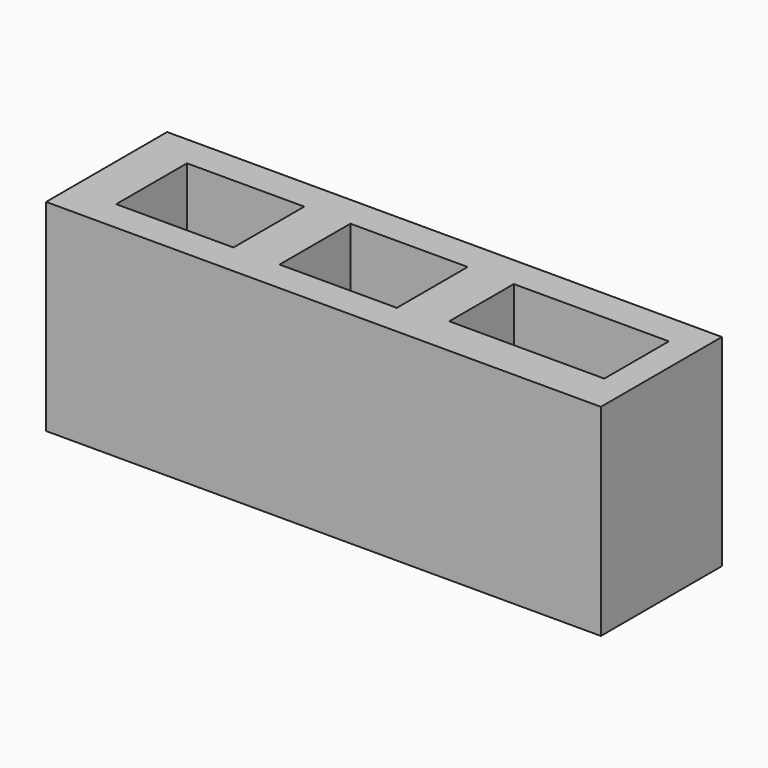
from build123d import *

# Parameters (mm, degrees)
F0_W     = 55.88
F0_H     = 15.24
F0_W_2   = 11.811
F0_H_2   = 8.9154
F0_W_3   = 15.621
F0_H_3   = 8.128
F1_DEPTH = 20.32


with BuildPart() as f1:
    # F0 (on Top) → F1 (new body)
    with BuildSketch(Plane.XY):
        with Locations((27.94, 7.62)):
            Rectangle(F0_W, F0_H)
        with Locations((10.453801, 7.597382)):
            Rectangle(F0_W_2, F0_H_2, mode=Mode.SUBTRACT)
        with Locations((26.913001, 7.597382)):
            Rectangle(F0_W_2, F0_H_2, mode=Mode.SUBTRACT)
        with Locations((45.277201, 7.991082)):
            Rectangle(F0_W_3, F0_H_3, mode=Mode.SUBTRACT)
    extrude(amount=F1_DEPTH)


solid = f1.part
